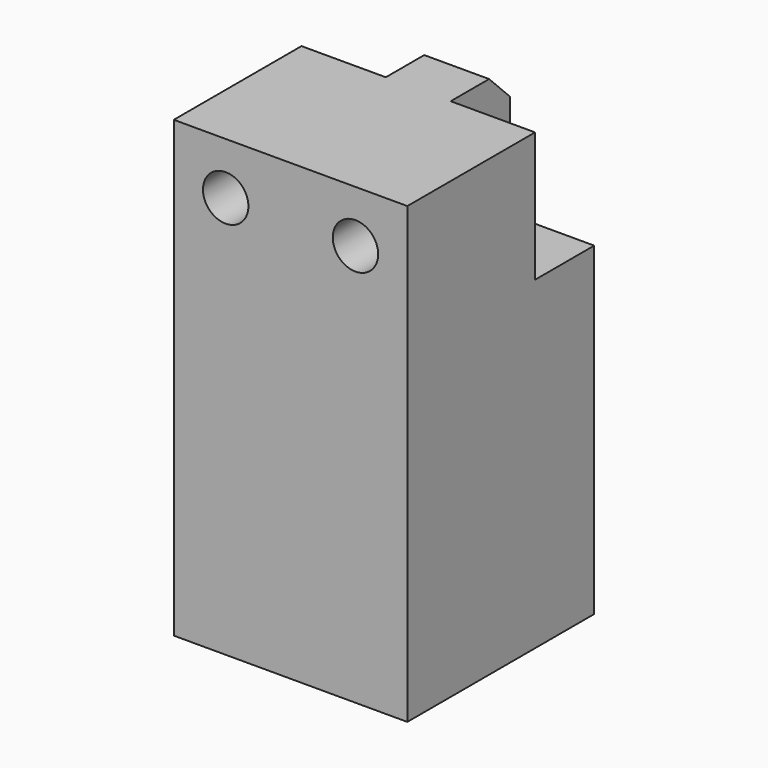
from build123d import *

# Parameters (mm, degrees)
F0_W     = 6.5
F0_H     = 5.7
F1_DEPTH = 25
F2_DEPTH = 10
F3_SIZE  = 2
F5_D     = 3.5


with BuildPart() as f1:
    # F0 (on Top) → F1 (new body)
    with BuildSketch(Plane.XY):
        Polygon((2.5, 9), (-2.5, 9), (-2.5, 3.3), (-9, 3.3), (-9, -9), (9, -9), (9, 3.3), (2.5, 3.3), align=None)
        with Locations((-5.75, 6.15)):
            Rectangle(F0_W, F0_H)
        with Locations((5.75, 6.15)):
            Rectangle(F0_W, F0_H)
    extrude(amount=-F1_DEPTH)

    # F0 (on Top) → F2 (join)
    with BuildSketch(Plane.XY):
        Polygon((2.5, 9), (-2.5, 9), (-2.5, 3.3), (-9, 3.3), (-9, -9), (9, -9), (9, 3.3), (2.5, 3.3), align=None)
    extrude(amount=F2_DEPTH)

    # F3
    f3_edges = [f1.edges().sort_by_distance(p)[0] for p in [
        (0, 9, 10),
    ]]
    chamfer(f3_edges, length=F3_SIZE)

    # F5 (through all)
    with Locations(Plane.XZ.offset(9)):
        with Locations((-5, 6), (5, 6)):
            Hole(F5_D / 2)


solid = f1.part
